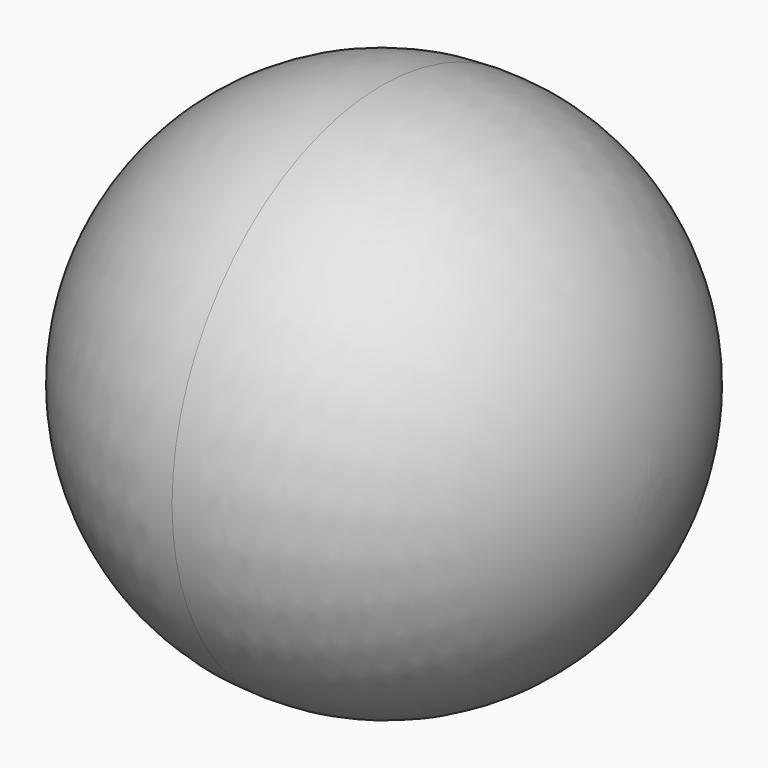
from build123d import *


with BuildPart() as f1:
    # F0 (on Front) → F1 (revolve)
    with BuildSketch(Plane.XZ):
        with BuildLine():
            Line((-266.7, 0), (0, 0))
            Line((0, 0), (0, 266.7))
            ThreePointArc((0, 266.7), (-188.585379, 188.585379), (-266.7, 0))
        make_face()
        with BuildLine():
            Line((0, 266.7), (0, 0))
            Line((0, 0), (271.350253, 0))
            ThreePointArc((271.350253, 0), (191.586831, 190.236596), (0, 266.7))
        make_face()
    revolve(axis=Axis((2.325126, 0, 0), (1, 0, 0)))


solid = f1.part
